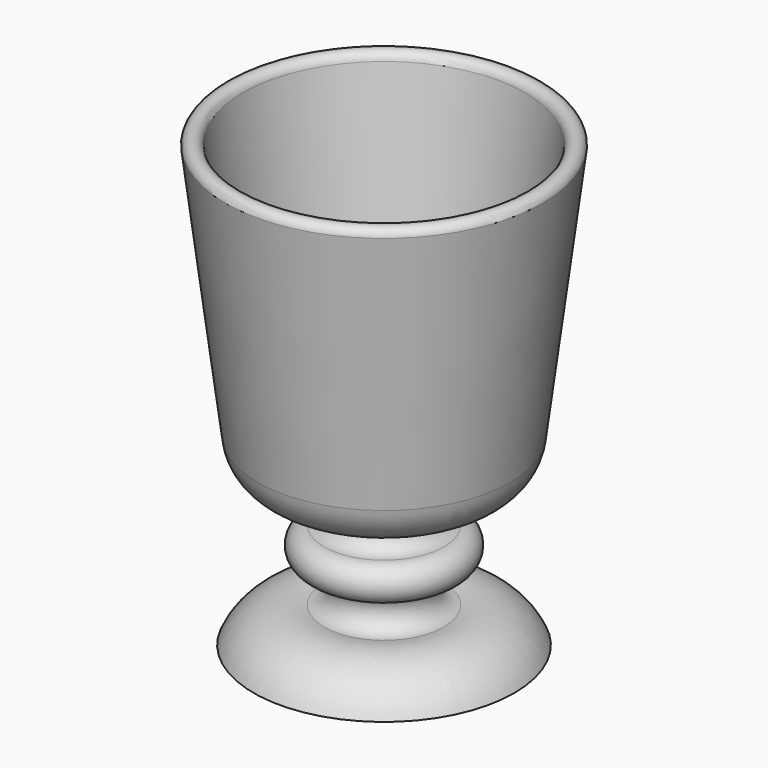
from build123d import *


with BuildPart() as f1:
    # F0 (on Front) → F1 (revolve)
    with BuildSketch(Plane.XZ):
        with BuildLine():
            ThreePointArc((-1.724179, -26.161118), (-7.607604, -23.935757), (-10.545529, -18.373787))
            Line((-10.545529, -18.373787), (-15.922113, 24.638882))
            ThreePointArc((-15.922113, 24.638882), (-17.509613, 26.040299), (-19.097113, 24.638882))
            Line((-19.097113, 24.638882), (-13.323654, -21.548787))
            ThreePointArc((-13.323654, -21.548787), (-10.385729, -27.110757), (-4.502304, -29.336118))
            Line((-4.502304, -29.336118), (-1.317113, -29.336118))
            ThreePointArc((-1.317113, -29.336118), (1.857887, -32.511118), (-1.317113, -35.686118))
            ThreePointArc((-1.317113, -35.686118), (-4.492113, -38.861118), (-1.317113, -42.036118))
            ThreePointArc((-1.317113, -42.036118), (1.865306, -45.21111), (-1.317113, -48.386101))
            ThreePointArc((-1.317113, -48.386101), (-8.837513, -49.2203), (-14.017113, -54.736101))
            Line((-14.017113, -54.736101), (9.477887, -54.736101))
            Line((9.477887, -54.736101), (9.477887, -26.161118))
            Line((9.477887, -26.161118), (-1.724179, -26.161118))
        make_face()
    revolve(axis=Axis((9.477887, 0, -9.7164), (0, 0, 1)))


solid = f1.part
